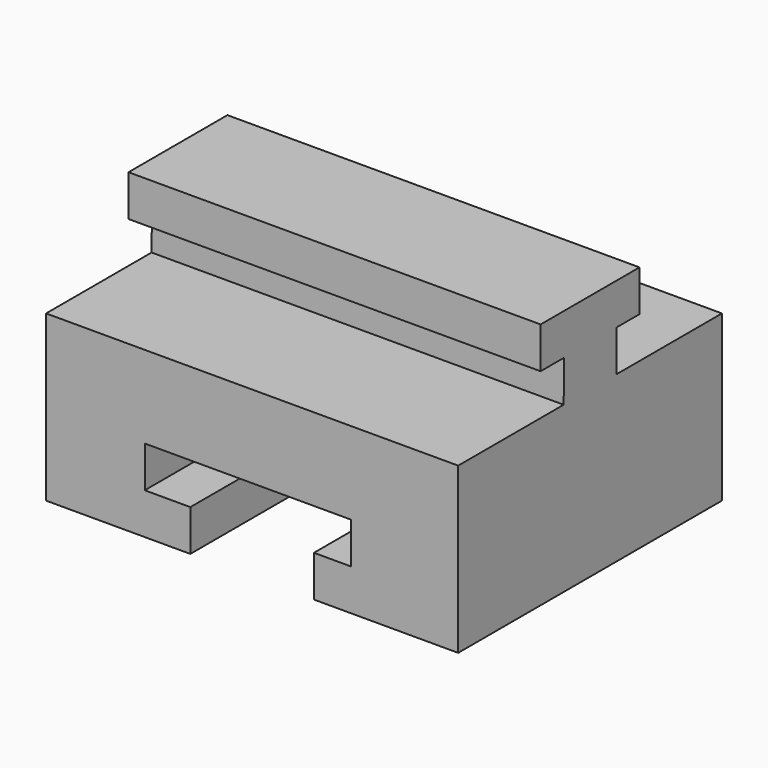
from build123d import *

# Parameters (mm, degrees)
F0_W     = 50
F0_H     = 30
F1_DEPTH = 40
F3_DEPTH = 50.001
F5_DEPTH = 40.001


with BuildPart() as f1:
    # F0 (on Front) → F1 (new body)
    with BuildSketch(Plane.XZ):
        Rectangle(F0_W, F0_H)
    extrude(amount=F1_DEPTH)

    # F2 (on face) → F3 (cut, through all)
    with BuildSketch(Plane(origin=(-25, 0, 0), x_dir=(0, -1, 0), z_dir=(-1, 0, 0))):
        Polygon((16, 5), (16, 10), (12.5, 10), (12.5, 15), (0, 15), (0, 5), align=None)
        Polygon((40, 15), (27.5, 15), (27.5, 10), (23.938067, 10), (24, 5), (40, 5), align=None)
    extrude(amount=-F3_DEPTH, mode=Mode.SUBTRACT)

    # F4 (on face) → F5 (cut, through all)
    with BuildSketch(Plane.XZ.offset(40)):
        Polygon((-7.5, -10), (-7.5, -15), (7.5, -15), (7.5, -10), (11.972041, -10), (11.972041, -5), (-13.027959, -5), (-13.027959, -10), align=None)
    extrude(amount=-F5_DEPTH, mode=Mode.SUBTRACT)


solid = f1.part
